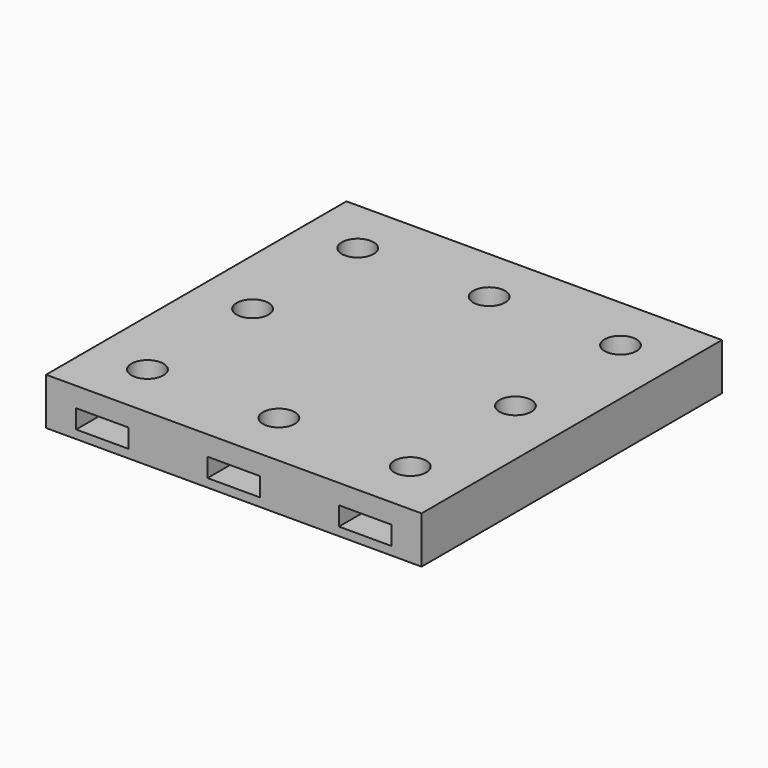
from build123d import *

# Parameters (mm, degrees)
CYLINDER004_R     = 1.7
CYLINDER004_DEPTH = 10
CYLINDER007_R     = 1.7
CYLINDER007_DEPTH = 10
CYLINDER005_R     = 1.7
CYLINDER005_DEPTH = 10
CYLINDER006_R     = 1.7
CYLINDER006_DEPTH = 10
CYLINDER001_R     = 1.7
CYLINDER001_DEPTH = 10
CYLINDER002_R     = 1.7
CYLINDER002_DEPTH = 10
CYLINDER003_R     = 1.7
CYLINDER003_DEPTH = 10
CYLINDER_R        = 1.7
CYLINDER_DEPTH    = 10
BOX065_W          = 5.8
BOX065_H          = 5.8
BOX065_DEPTH      = 2
BOX062_W          = 5.4
BOX062_H          = 5.4
BOX062_DEPTH      = 2
BOX063_W          = 5.7
BOX063_H          = 5.7
BOX063_DEPTH      = 2
BOX064_W          = 5.5
BOX064_H          = 5.5
BOX064_DEPTH      = 2
BOX066_W          = 5.6
BOX066_H          = 10
BOX066_DEPTH      = 2
BOX059_W          = 5.6
BOX059_H          = 5.6
BOX059_DEPTH      = 2
BOX060_W          = 5.6
BOX060_H          = 10
BOX060_DEPTH      = 2
BOX061_W          = 5.6
BOX061_H          = 10
BOX061_DEPTH      = 2
BOX058_W          = 40
BOX058_H          = 40
BOX058_DEPTH      = 5


with BuildPart() as cylinder004:
    # Cylinder004 → Cylinder004 (new body)
    with BuildSketch(Plane(origin=(20, 34, 0), x_dir=(1, 0, 0), z_dir=(0, 0, 1))):
        Circle(CYLINDER004_R)
    extrude(amount=CYLINDER004_DEPTH)


with BuildPart() as cylinder007:
    # Cylinder007 → Cylinder007 (new body)
    with BuildSketch(Plane(origin=(34, 20, 0), x_dir=(1, 0, 0), z_dir=(0, 0, 1))):
        Circle(CYLINDER007_R)
    extrude(amount=CYLINDER007_DEPTH)


with BuildPart() as cylinder005:
    # Cylinder005 → Cylinder005 (new body)
    with BuildSketch(Plane(origin=(6, 34, 0), x_dir=(1, 0, 0), z_dir=(0, 0, 1))):
        Circle(CYLINDER005_R)
    extrude(amount=CYLINDER005_DEPTH)


with BuildPart() as cylinder006:
    # Cylinder006 → Cylinder006 (new body)
    with BuildSketch(Plane(origin=(6, 20, 0), x_dir=(1, 0, 0), z_dir=(0, 0, 1))):
        Circle(CYLINDER006_R)
    extrude(amount=CYLINDER006_DEPTH)


with BuildPart() as cylinder001:
    # Cylinder001 → Cylinder001 (new body)
    with BuildSketch(Plane(origin=(20, 6, 0), x_dir=(1, 0, 0), z_dir=(0, 0, 1))):
        Circle(CYLINDER001_R)
    extrude(amount=CYLINDER001_DEPTH)


with BuildPart() as cylinder002:
    # Cylinder002 → Cylinder002 (new body)
    with BuildSketch(Plane(origin=(34, 6, 0), x_dir=(1, 0, 0), z_dir=(0, 0, 1))):
        Circle(CYLINDER002_R)
    extrude(amount=CYLINDER002_DEPTH)


with BuildPart() as cylinder003:
    # Cylinder003 → Cylinder003 (new body)
    with BuildSketch(Plane(origin=(34, 34, 0), x_dir=(1, 0, 0), z_dir=(0, 0, 1))):
        Circle(CYLINDER003_R)
    extrude(amount=CYLINDER003_DEPTH)


with BuildPart() as fusion018:
    # Cylinder → Cylinder (new body)
    with BuildSketch(Plane(origin=(6, 6, 0), x_dir=(1, 0, 0), z_dir=(0, 0, 1))):
        Circle(CYLINDER_R)
    extrude(amount=CYLINDER_DEPTH)

    # Fusion018: union Cylinder004, Cylinder007, Cylinder005, Cylinder006, Cylinder001, Cylinder002, Cylinder003
    add(cylinder004.part)
    add(cylinder007.part)
    add(cylinder005.part)
    add(cylinder006.part)
    add(cylinder001.part)
    add(cylinder002.part)
    add(cylinder003.part)


with BuildPart() as sphere024:
    # Sphere024 → Sphere024 (revolve)
    with BuildSketch(Plane(origin=(6, 34, 2.4), x_dir=(1, 0, 0), z_dir=(0, -1, 0))):
        with BuildLine():
            ThreePointArc((0, -3.35), (3.35, 0), (0, 3.35))
            Line((0, 3.35), (0, -3.35))
        make_face()
    revolve(axis=Axis((6, 34, 2.4), (0, 0, 1)))


with BuildPart() as obj1:
    # Sphere006 → Sphere006 (revolve)
    with BuildSketch(Plane(origin=(6, 6, 2.4), x_dir=(1, 0, 0), z_dir=(0, -1, 0))):
        with BuildLine():
            ThreePointArc((0, -3.35), (3.35, 0), (0, 3.35))
            Line((0, 3.35), (0, -3.35))
        make_face()
    revolve(axis=Axis((6, 6, 2.4), (0, 0, 1)))


with BuildPart() as sphere025:
    # Sphere025 → Sphere025 (revolve)
    with BuildSketch(Plane(origin=(20, 6, 2.4), x_dir=(1, 0, 0), z_dir=(0, -1, 0))):
        with BuildLine():
            ThreePointArc((0, -3.35), (3.35, 0), (0, 3.35))
            Line((0, 3.35), (0, -3.35))
        make_face()
    revolve(axis=Axis((20, 6, 2.4), (0, 0, 1)))


with BuildPart() as sphere001:
    # Sphere001 → Sphere001 (revolve)
    with BuildSketch(Plane(origin=(34, 6, 2.4), x_dir=(1, 0, 0), z_dir=(0, -1, 0))):
        with BuildLine():
            ThreePointArc((0, -3.35), (3.35, 0), (0, 3.35))
            Line((0, 3.35), (0, -3.35))
        make_face()
    revolve(axis=Axis((34, 6, 2.4), (0, 0, 1)))


with BuildPart() as sphere026:
    # Sphere026 → Sphere026 (revolve)
    with BuildSketch(Plane(origin=(20, 34, 2.4), x_dir=(1, 0, 0), z_dir=(0, -1, 0))):
        with BuildLine():
            ThreePointArc((0, -3.35), (3.35, 0), (0, 3.35))
            Line((0, 3.35), (0, -3.35))
        make_face()
    revolve(axis=Axis((20, 34, 2.4), (0, 0, 1)))


with BuildPart() as sphere004:
    # Sphere004 → Sphere004 (revolve)
    with BuildSketch(Plane(origin=(6, 20, 2.4), x_dir=(1, 0, 0), z_dir=(0, -1, 0))):
        with BuildLine():
            ThreePointArc((0, -3.35), (3.35, 0), (0, 3.35))
            Line((0, 3.35), (0, -3.35))
        make_face()
    revolve(axis=Axis((6, 20, 2.4), (0, 0, 1)))


with BuildPart() as sphere002:
    # Sphere002 → Sphere002 (revolve)
    with BuildSketch(Plane(origin=(34, 34, 2.4), x_dir=(1, 0, 0), z_dir=(0, -1, 0))):
        with BuildLine():
            ThreePointArc((0, -3.35), (3.35, 0), (0, 3.35))
            Line((0, 3.35), (0, -3.35))
        make_face()
    revolve(axis=Axis((34, 34, 2.4), (0, 0, 1)))


with BuildPart() as fusion019:
    # Sphere007 → Sphere007 (revolve)
    with BuildSketch(Plane(origin=(34, 20, 2.4), x_dir=(1, 0, 0), z_dir=(0, -1, 0))):
        with BuildLine():
            ThreePointArc((0, -3.35), (3.35, 0), (0, 3.35))
            Line((0, 3.35), (0, -3.35))
        make_face()
    revolve(axis=Axis((34, 20, 2.4), (0, 0, 1)))

    # Fusion019: union Sphere024, obj1, Sphere025, Sphere001, Sphere026, Sphere004, Sphere002
    add(sphere024.part)
    add(obj1.part)
    add(sphere025.part)
    add(sphere001.part)
    add(sphere026.part)
    add(sphere004.part)
    add(sphere002.part)


with BuildPart() as box065:
    # Box065 → Box065 (new body)
    with BuildSketch(Plane(origin=(3.1, 17.1, 4.6), x_dir=(1, 0, 0), z_dir=(0, 0, 1))):
        with Locations((2.9, 2.9)):
            Rectangle(BOX065_W, BOX065_H)
    extrude(amount=BOX065_DEPTH)


with BuildPart() as box062:
    # Box062 → Box062 (new body)
    with BuildSketch(Plane(origin=(31.3, 17.3, 4.6), x_dir=(1, 0, 0), z_dir=(0, 0, 1))):
        with Locations((2.7, 2.7)):
            Rectangle(BOX062_W, BOX062_H)
    extrude(amount=BOX062_DEPTH)


with BuildPart() as box063:
    # Box063 → Box063 (new body)
    with BuildSketch(Plane(origin=(3.15, 31.15, 4.6), x_dir=(1, 0, 0), z_dir=(0, 0, 1))):
        with Locations((2.85, 2.85)):
            Rectangle(BOX063_W, BOX063_H)
    extrude(amount=BOX063_DEPTH)


with BuildPart() as box064:
    # Box064 → Box064 (new body)
    with BuildSketch(Plane(origin=(31.25, 31.25, 4.6), x_dir=(1, 0, 0), z_dir=(0, 0, 1))):
        with Locations((2.75, 2.75)):
            Rectangle(BOX064_W, BOX064_H)
    extrude(amount=BOX064_DEPTH)


with BuildPart() as box066:
    # Box066 → Box066 (new body)
    with BuildSketch(Plane(origin=(3.2, -0.85, 4.6), x_dir=(1, 0, 0), z_dir=(0, 0, 1))):
        with Locations((2.8, 5)):
            Rectangle(BOX066_W, BOX066_H)
    extrude(amount=BOX066_DEPTH)


with BuildPart() as box059:
    # Box059 → Box059 (new body)
    with BuildSketch(Plane(origin=(17.2, 31.2, 4.6), x_dir=(1, 0, 0), z_dir=(0, 0, 1))):
        with Locations((2.8, 2.8)):
            Rectangle(BOX059_W, BOX059_H)
    extrude(amount=BOX059_DEPTH)


with BuildPart() as box060:
    # Box060 → Box060 (new body)
    with BuildSketch(Plane(origin=(17.2, -0.85, 4.6), x_dir=(1, 0, 0), z_dir=(0, 0, 1))):
        with Locations((2.8, 5)):
            Rectangle(BOX060_W, BOX060_H)
    extrude(amount=BOX060_DEPTH)


with BuildPart() as fusion020:
    # Box061 → Box061 (new body)
    with BuildSketch(Plane(origin=(31.2, -0.85, 4.6), x_dir=(1, 0, 0), z_dir=(0, 0, 1))):
        with Locations((2.8, 5)):
            Rectangle(BOX061_W, BOX061_H)
    extrude(amount=BOX061_DEPTH)

    # Fusion020: union Box065, Box062, Box063, Box064, Box066, Box059, Box060
    add(box065.part)
    add(box062.part)
    add(box063.part)
    add(box064.part)
    add(box066.part)
    add(box059.part)
    add(box060.part)


with BuildPart() as cut018:
    # Box058 → Box058 (new body)
    with BuildSketch(Plane.XY.offset(3.7)):
        with Locations((20, 20)):
            Rectangle(BOX058_W, BOX058_H)
    extrude(amount=BOX058_DEPTH)

    # Cut017: cut Fusion020
    add(fusion020.part, mode=Mode.SUBTRACT)

    # Cut019: cut Fusion019
    add(fusion019.part, mode=Mode.SUBTRACT)

    # Cut018: cut Fusion018
    add(fusion018.part, mode=Mode.SUBTRACT)


solid = cut018.part
